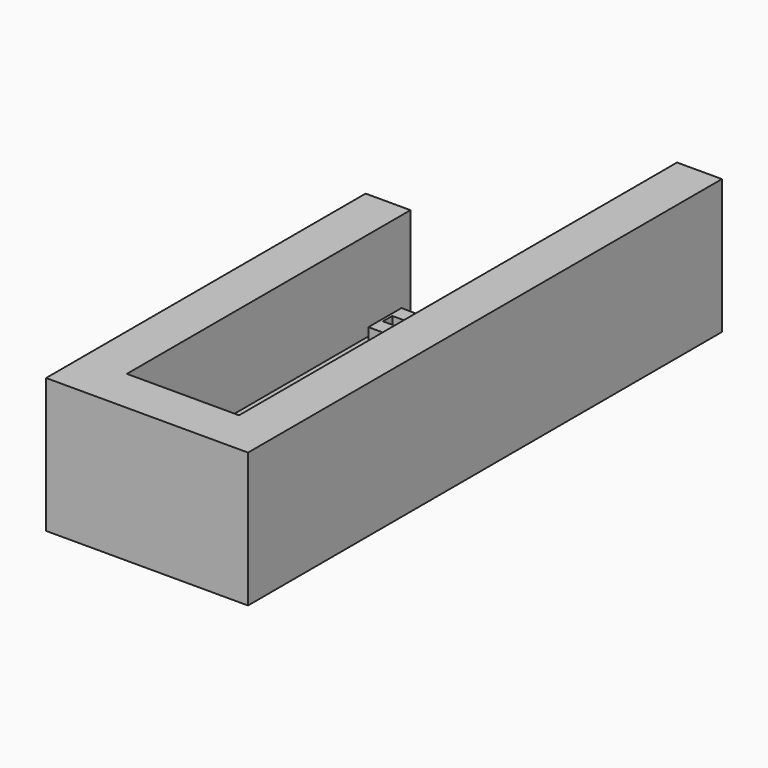
from build123d import *

# Parameters (mm, degrees)
SKETCH_W        = 22.5
SKETCH_H        = 66
PAD_DEPTH       = 15
SKETCH001_W     = 12.5
SKETCH001_H     = 75
SKETCH001_W_2   = 4.6
SKETCH001_H_2   = 4.6
POCKET_DEPTH    = 10
SKETCH002_W     = 7
SKETCH002_H     = 7
POCKET001_DEPTH = 5.8
SKETCH004_W     = 1.1
SKETCH004_H     = 4
POCKET002_DEPTH = 10
SKETCH005_W     = 4
SKETCH005_H     = 1.3
POCKET003_DEPTH = 10
SKETCH007_W     = 17.25
SKETCH007_H     = 26.5
POCKET004_DEPTH = 20


with BuildPart() as part:
    # Sketch → Pad (new body)
    with BuildSketch(Plane.XY):
        with Locations((51.75, -67)):
            Rectangle(SKETCH_W, SKETCH_H)
    extrude(amount=PAD_DEPTH)

    # Sketch001 (on DatumPlane) → Pocket (cut)
    with BuildSketch(Plane.XY.offset(15)):
        with Locations((51.75, -57.5)):
            Rectangle(SKETCH001_W, SKETCH001_H)
        with Locations((51.75, -64)):
            Rectangle(SKETCH001_W_2, SKETCH001_H_2, mode=Mode.SUBTRACT)
    extrude(amount=-POCKET_DEPTH, mode=Mode.SUBTRACT)

    # Sketch002 (on DatumPlane) → Pocket001 (cut)
    with BuildSketch(Plane.XY.offset(15)):
        with Locations((51.5, -63.5)):
            Rectangle(SKETCH002_W, SKETCH002_H)
    extrude(amount=-POCKET001_DEPTH, mode=Mode.SUBTRACT)

    # Sketch004 (on DatumPlane) → Pocket002 (cut)
    with BuildSketch(Plane.XY.offset(15)):
        with Locations((51.75, -64)):
            Rectangle(SKETCH004_W, SKETCH004_H)
    extrude(amount=-POCKET002_DEPTH, mode=Mode.SUBTRACT)

    # Sketch005 (on DatumPlane) → Pocket003 (cut)
    with BuildSketch(Plane.XY.offset(15)):
        with Locations((51.75, -64)):
            Rectangle(SKETCH005_W, SKETCH005_H)
    extrude(amount=-POCKET003_DEPTH, mode=Mode.SUBTRACT)

    # Sketch007 (on DatumPlane) → Pocket004 (cut)
    with BuildSketch(Plane.XY.offset(15)):
        with Locations((38.625, -42.25)):
            Rectangle(SKETCH007_W, SKETCH007_H)
    extrude(amount=-POCKET004_DEPTH, mode=Mode.SUBTRACT)


solid = part.part
